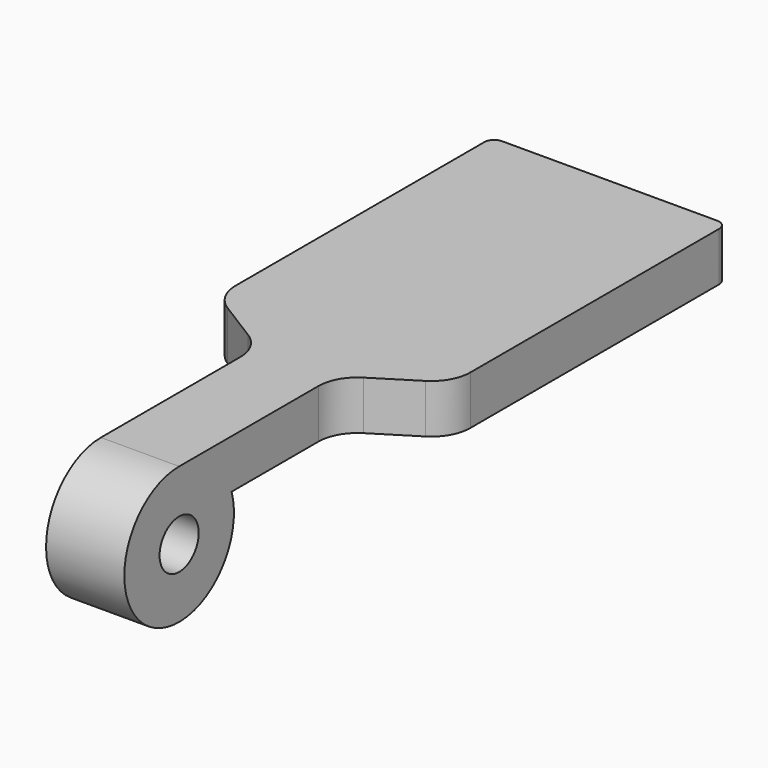
from build123d import *

# Parameters (mm, degrees)
SKETCH006_R             = 2.5
PAD005_DEPTH            = 8
PAD006_DEPTH            = 5
FILLET_R                = 4
FILLET001_R             = 1
BODY001_PLACEMENT_ANGLE = 90


with BuildPart() as part:
    # Sketch006 → Pad005 (new body)
    with BuildSketch(Plane.XZ):
        with BuildLine():
            ThreePointArc((0, 7), (-4.1833, -5.612486), (6.708204, 2))
            Line((60, 2), (6.708204, 2))
            Line((60, 7), (60, 2))
            Line((0, 7), (60, 7))
        make_face()
        Circle(SKETCH006_R, mode=Mode.SUBTRACT)
    extrude(amount=PAD005_DEPTH)

    # Sketch007 (on Face4 of Pad005) → Pad006 (join)
    with BuildSketch(Plane.XY.offset(2)):
        Polygon((20, 0), (25, 8), (60, 8), (60, -16), (25, -16), (20, -8), align=None)
    extrude(amount=PAD006_DEPTH)

    # Fillet
    fillet_edges = [part.edges().sort_by_distance(p)[0] for p in [
        (25, 8, 4.5),
        (25, -16, 4.5),
        (20, -8, 4.5),
        (20, 0, 4.5),
    ]]
    fillet(fillet_edges, radius=FILLET_R)

    # Fillet001
    fillet001_edges = [part.edges().sort_by_distance(p)[0] for p in [
        (60, 8, 4.5),
        (60, -16, 4.5),
    ]]
    fillet(fillet001_edges, radius=FILLET001_R)


with BuildPart() as part_1:
    # Body001 placement: moved
    add(part.part.moved(Location((-4, -10.5, 11.5))).rotate(Axis((-4, -10.5, 11.5), (0, 0, 1)), BODY001_PLACEMENT_ANGLE))


solid = part_1.part
